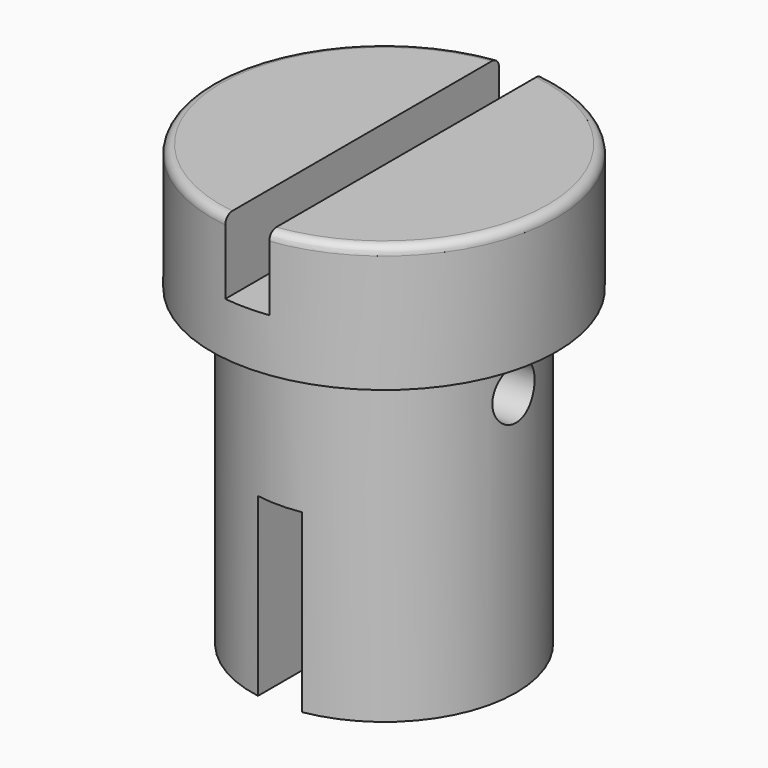
from build123d import *

# Parameters (mm, degrees)
F3_DEPTH = 4.2
F4_R     = 0.5
F5_W     = 2.5
F5_H     = 20
F6_DEPTH = 10
F7_R     = 1.5
F8_DEPTH = 12.5


with BuildPart() as f1:
    # F0 (on Front) → F1 (revolve)
    with BuildSketch(Plane.XZ):
        Polygon((0, 25), (0, 0), (7.5, 0), (7.5, 17.8), (9.8, 17.8), (9.8, 25), align=None)
    revolve(axis=Axis((0, 0, 12.5), (0, 0, -1)))

    # F2 (on face) → F3 (cut)
    with BuildSketch(Plane.XY.offset(25)):
        with BuildLine():
            Line((1.25, 15), (-1.25, 15))
            Line((-1.25, 15), (-1.25, 9.7199537036))
            ThreePointArc((-1.25, 9.7199537036), (0, 9.8), (1.25, 9.7199537036))
            Line((1.25, 9.7199537036), (1.25, 15))
        make_face()
        with BuildLine():
            ThreePointArc((1.25, 9.7199537036), (0, 9.8), (-1.25, 9.7199537036))
            Line((-1.25, 9.7199537036), (-1.25, -9.7199537036))
            ThreePointArc((-1.25, -9.7199537036), (0, -9.8), (1.25, -9.7199537036))
            Line((1.25, -9.7199537036), (1.25, 9.7199537036))
        make_face()
        with BuildLine():
            ThreePointArc((1.25, -9.7199537036), (0, -9.8), (-1.25, -9.7199537036))
            Line((-1.25, -9.7199537036), (-1.25, -15))
            Line((-1.25, -15), (1.25, -15))
            Line((1.25, -15), (1.25, -9.7199537036))
        make_face()
    extrude(amount=-F3_DEPTH, mode=Mode.SUBTRACT)

    # F4
    f4_edges = [f1.edges().sort_by_distance(p)[0] for p in [
        (-9.8, 0, 25),
        (7.358329, -6.472635, 25),
        (7.358329, 6.472635, 25),
    ]]
    fillet(f4_edges, radius=F4_R)

    # F5 (on face) → F6 (cut)
    with BuildSketch(Plane(origin=(0, 0, 0), x_dir=(1, 0, 0), z_dir=(0, 0, -1))):
        Rectangle(F5_W, F5_H)
    extrude(amount=-F6_DEPTH, mode=Mode.SUBTRACT)

    # F7 (on Right) → F8 (cut, symmetric)
    with BuildSketch(Plane.YZ):
        with Locations((0, 15)):
            Circle(F7_R)
    extrude(amount=F8_DEPTH, both=True, mode=Mode.SUBTRACT)


solid = f1.part
